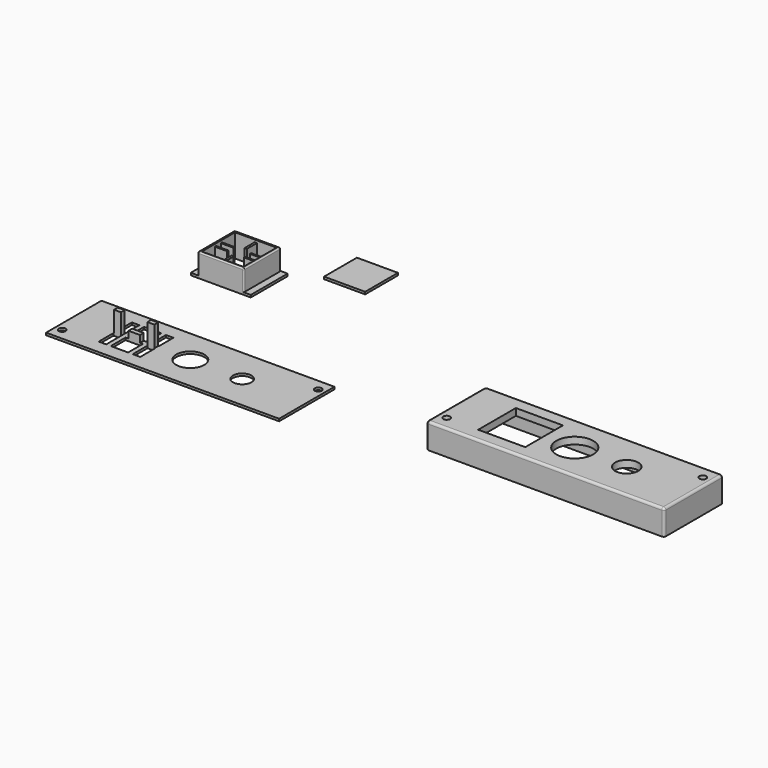
from build123d import *

# Parameters (mm, degrees)
F0_W      = 101
F0_H      = 30
F0_R      = 1.5
F0_R_2    = 6.1
F0_R_3    = 4
F1_DEPTH  = 1
F2_W      = 3
F2_H      = 2
F3_DEPTH  = 9
F4_W      = 20
F4_H      = 20
F5_DEPTH  = 10
F6_T      = -1
F7_W      = 8.5
F7_H      = 0.7
F8_DEPTH  = 9
F9_W      = 7.2
F9_H      = 7.2
F10_DEPTH = 9
F11_W     = 3
F11_H     = 20
F12_DEPTH = 1
F13_W     = 18
F13_H     = 18
F14_DEPTH = 1
F15_R     = 0.5
F4_W_2    = 17.8
F4_H_2    = 17.8
F16_DEPTH = 1
F17_W     = 5
F17_H     = 2
F18_DEPTH = 3
F19_W     = 103
F19_H     = 32
F19_R     = 1.5
F19_W_2   = 20.4
F19_H_2   = 20.4
F19_R_2   = 8
F19_R_3   = 5
F20_DEPTH = 11
F21_W     = 101
F21_H     = 30
F22_DEPTH = 8
F23_R     = 1


with BuildPart() as f1:
    # F0 (on Top) → F1 (new body)
    with BuildSketch(Plane.XY):
        Rectangle(F0_W, F0_H)
        with Locations((-47.5, -10)):
            Circle(F0_R, mode=Mode.SUBTRACT)
        Polygon((-32.5, 1), (-32.5, 9), (-29.25, 9), (-27.25, 9), (-19.75, 9), (-17.75, 9), (-14.5, 9), (-14.5, 1), (-14.5, -1), (-14.5, -9), (-17.75, -9), (-19.75, -9), (-27.25, -9), (-29.25, -9), (-32.5, -9), (-32.5, -1), align=None, mode=Mode.SUBTRACT)
        Circle(F0_R_2, mode=Mode.SUBTRACT)
        with Locations((22.5, 0)):
            Circle(F0_R_3, mode=Mode.SUBTRACT)
        with Locations((47.5, 10)):
            Circle(F0_R, mode=Mode.SUBTRACT)
        Polygon((-27.25, 9), (-29.25, 9), (-29.25, 1), (-32.5, 1), (-32.5, -1), (-29.25, -1), (-29.25, -9), (-27.25, -9), (-27.25, -1), (-19.75, -1), (-19.75, -9), (-17.75, -9), (-17.75, -1), (-14.5, -1), (-14.5, 1), (-17.75, 1), (-17.75, 9), (-19.75, 9), (-19.75, 1), (-27.25, 1), align=None)
    extrude(amount=F1_DEPTH)

    # F2 (on face) → F3 (join)
    with BuildSketch(Plane.XY.offset(1)):
        with Locations((-30.75, 0)):
            Rectangle(F2_W, F2_H)
        with Locations((-16.25, 0)):
            Rectangle(F2_W, F2_H)
    extrude(amount=F3_DEPTH)

    # F17 (on face) → F18 (join)
    with BuildSketch(Plane.XY.offset(1)):
        with Locations((-23.5, 0)):
            Rectangle(F17_W, F17_H)
    extrude(amount=F18_DEPTH)


with BuildPart() as f5:
    # F4 (on Top) → F5 (new body)
    with BuildSketch(Plane.XY):
        with Locations((-26.687329, 59.883659)):
            Rectangle(F4_W, F4_H)
    extrude(amount=F5_DEPTH)

    # F6
    f6_openings = [f5.faces().sort_by_distance(p)[0] for p in [
        (-26.687329, 59.883659, 0),
    ]]
    offset(amount=F6_T, openings=f6_openings)

    # F7 (on face) → F8 (join)
    with BuildSketch(Plane(origin=(0, 0, 0), x_dir=(1, 0, 0), z_dir=(0, 0, -1))):
        with Locations((-31.437329, -58.233659)):
            Rectangle(F7_W, F7_H)
        Polygon((-27.187329, -50.883659), (-27.187329, -57.883659), (-27.187329, -58.583659), (-27.187329, -61.183659), (-27.187329, -61.883659), (-27.187329, -68.883659), (-26.187329, -68.883659), (-26.187329, -61.883659), (-26.187329, -61.183659), (-26.187329, -58.583659), (-26.187329, -57.883659), (-26.187329, -50.883659), align=None)
        with Locations((-31.437329, -61.533659)):
            Rectangle(F7_W, F7_H)
        with Locations((-21.937329, -58.233659)):
            Rectangle(F7_W, F7_H)
        with Locations((-21.937329, -61.533659)):
            Rectangle(F7_W, F7_H)
    extrude(amount=-F8_DEPTH)

    # F9 (on face) → F10 (cut)
    with BuildSketch(Plane(origin=(0, 0, 0), x_dir=(1, 0, 0), z_dir=(0, 0, -1))):
        with Locations((-26.687329, -59.883659)):
            Rectangle(F9_W, F9_H)
    extrude(amount=-F10_DEPTH, mode=Mode.SUBTRACT)

    # F11 (on face) → F12 (join)
    with BuildSketch(Plane(origin=(0, 0, 0), x_dir=(1, 0, 0), z_dir=(0, 0, -1))):
        with Locations((-38.187329, -59.883659)):
            Rectangle(F11_W, F11_H)
        with Locations((-15.187329, -59.883659)):
            Rectangle(F11_W, F11_H)
    extrude(amount=-F12_DEPTH)

    # F13 (on face) → F14 (cut)
    with BuildSketch(Plane.XY.offset(10)):
        with Locations((-26.687329, 59.883659)):
            Rectangle(F13_W, F13_H)
    extrude(amount=-F14_DEPTH, mode=Mode.SUBTRACT)

    # F15
    f15_edges = [f5.edges().sort_by_distance(p)[0] for p in [
        (-16.687329, 49.883659, 5.5),
        (-16.687329, 69.883659, 5.5),
        (-16.687329, 59.883659, 10),
        (-26.687329, 69.883659, 10),
        (-26.687329, 49.883659, 10),
        (-36.687329, 59.883659, 10),
        (-36.687329, 49.883659, 5.5),
        (-36.687329, 69.883659, 5.5),
    ]]
    fillet(f15_edges, radius=F15_R)


with BuildPart() as f16:
    # F4 (on Top) → F16 (new body)
    with BuildSketch(Plane.XY):
        with Locations((6.211989, 84.749466)):
            Rectangle(F4_W_2, F4_H_2)
    extrude(amount=F16_DEPTH)


with BuildPart() as f20:
    # F19 (on Top) → F20 (new body)
    with BuildSketch(Plane.XY):
        with Locations((153.863519, 16)):
            Rectangle(F19_W, F19_H)
        with Locations((106.363519, 6)):
            Circle(F19_R, mode=Mode.SUBTRACT)
        with Locations((130.363519, 16)):
            Rectangle(F19_W_2, F19_H_2, mode=Mode.SUBTRACT)
        with Locations((153.863519, 16)):
            Circle(F19_R_2, mode=Mode.SUBTRACT)
        with Locations((176.363519, 16)):
            Circle(F19_R_3, mode=Mode.SUBTRACT)
        with Locations((201.363519, 26)):
            Circle(F19_R, mode=Mode.SUBTRACT)
    extrude(amount=F20_DEPTH)

    # F21 (on face) → F22 (cut)
    with BuildSketch(Plane(origin=(0, 0, 0), x_dir=(1, 0, 0), z_dir=(0, 0, -1))):
        with Locations((153.863519, -16)):
            Rectangle(F21_W, F21_H)
    extrude(amount=-F22_DEPTH, mode=Mode.SUBTRACT)

    # F23
    f23_edges = [f20.edges().sort_by_distance(p)[0] for p in [
        (102.363519, 16, 11),
        (153.863519, 32, 11),
        (153.863519, 0, 11),
        (205.363519, 16, 11),
        (205.363519, 32, 5.5),
        (205.363519, 0, 5.5),
        (102.363519, 32, 5.5),
        (102.363519, 0, 5.5),
    ]]
    fillet(f23_edges, radius=F23_R)


solid = Compound([f1.part, f5.part, f16.part, f20.part])
